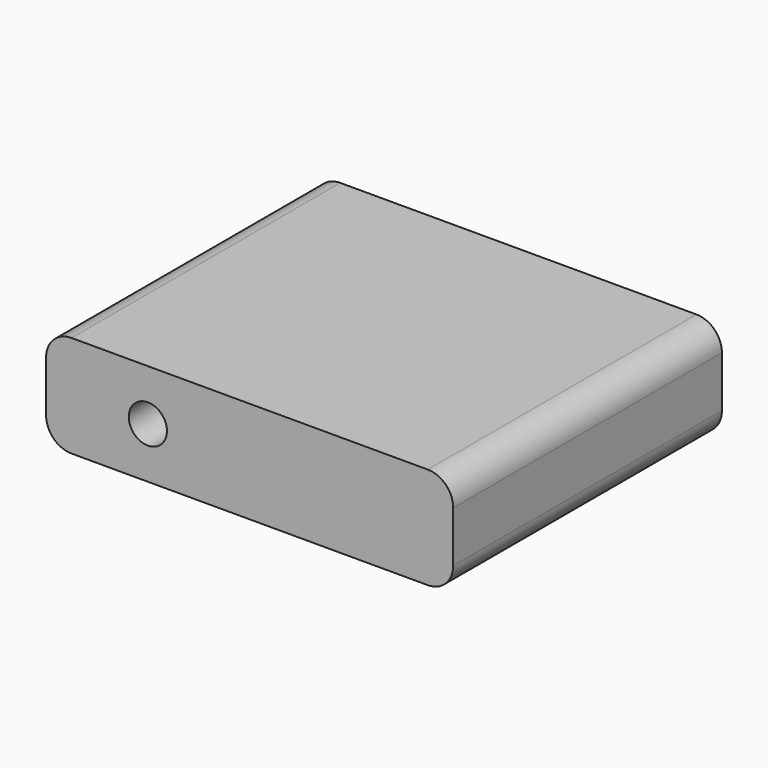
from build123d import *

# Parameters (mm, degrees)
F0_W     = 20.955
F0_H     = 6.35
F1_DEPTH = 25.4
F2_R     = 1.5875
F3_R     = 1.190625
F4_DEPTH = 25.4


with BuildPart() as f1:
    # F0 (on Right) → F1 (new body)
    with BuildSketch(Plane.YZ):
        with Locations((-13.227284, 21.981973)):
            Rectangle(F0_W, F0_H)
    extrude(amount=F1_DEPTH)

    # F2
    f2_edges = [f1.edges().sort_by_distance(p)[0] for p in [
        (25.4, -13.227284, 25.156973),
        (25.4, -13.227284, 18.806973),
        (0, -13.227284, 18.806973),
        (0, -13.227284, 25.156973),
    ]]
    fillet(f2_edges, radius=F2_R)

    # F3 (on face) → F4 (cut)
    with BuildSketch(Plane(origin=(0, -2.749784, 0), x_dir=(-1, 0, 0), z_dir=(0, 1, 0))):
        with Locations((-6.35, 21.981973)):
            Circle(F3_R)
    extrude(amount=-F4_DEPTH, mode=Mode.SUBTRACT)


solid = f1.part
